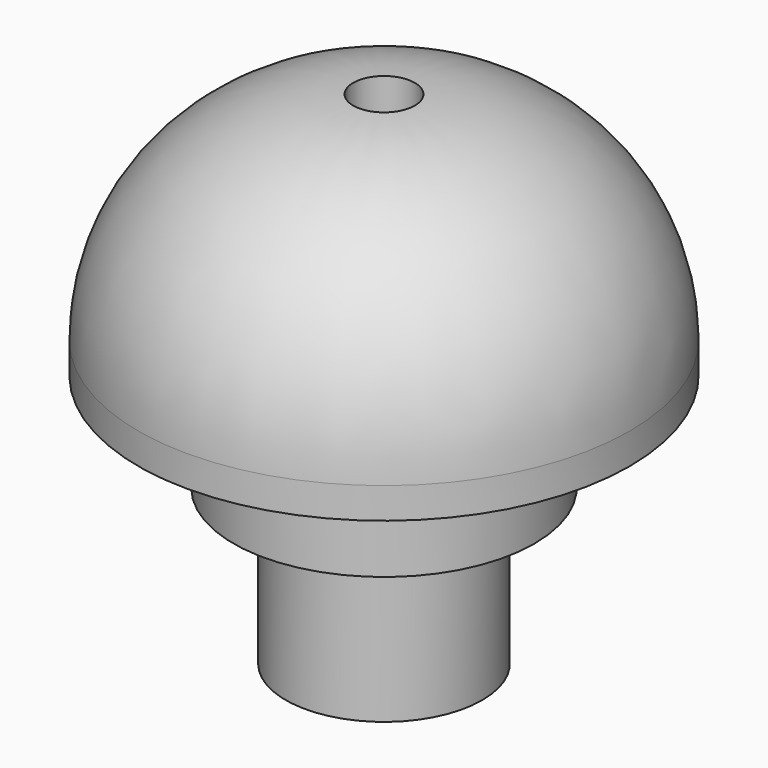
from build123d import *

# Parameters (mm, degrees)
F0_R          = 4.8625
F1_DEPTH      = 3.2
F2_R          = 7.9375
F2_R_2        = 4.8625
F3_DEPTH      = 8
F4_R          = 7
F5_R          = 3.175
F6_DEPTH      = 5
F7_R          = 0.995
F8_DEPTH      = 25
F8_DEPTH_BACK = 25


with BuildPart() as f1:
    # F0 (on Top) → F1 (new body)
    with BuildSketch(Plane.XY):
        Circle(F0_R)
    extrude(amount=F1_DEPTH)

    # F2 (on face) → F3 (join)
    with BuildSketch(Plane.XY.offset(3.2)):
        Circle(F2_R)
        Circle(F2_R_2, mode=Mode.SUBTRACT)
        Circle(F2_R_2)
    extrude(amount=F3_DEPTH)

    # F4
    f4_edges = [f1.edges().sort_by_distance(p)[0] for p in [
        (-7.9375, 0, 11.2),
    ]]
    fillet(f4_edges, radius=F4_R)

    # F5 (on Top) → F6 (join)
    with BuildSketch(Plane.XY):
        Circle(F5_R)
    extrude(amount=-F6_DEPTH)

    # F7 (on Top) → F8 (cut, two sides)
    with BuildSketch(Plane.XY) as f8_sk:
        Circle(F7_R)
    extrude(amount=-F8_DEPTH, mode=Mode.SUBTRACT)
    extrude(f8_sk.sketch, amount=F8_DEPTH_BACK, mode=Mode.SUBTRACT)


solid = f1.part
